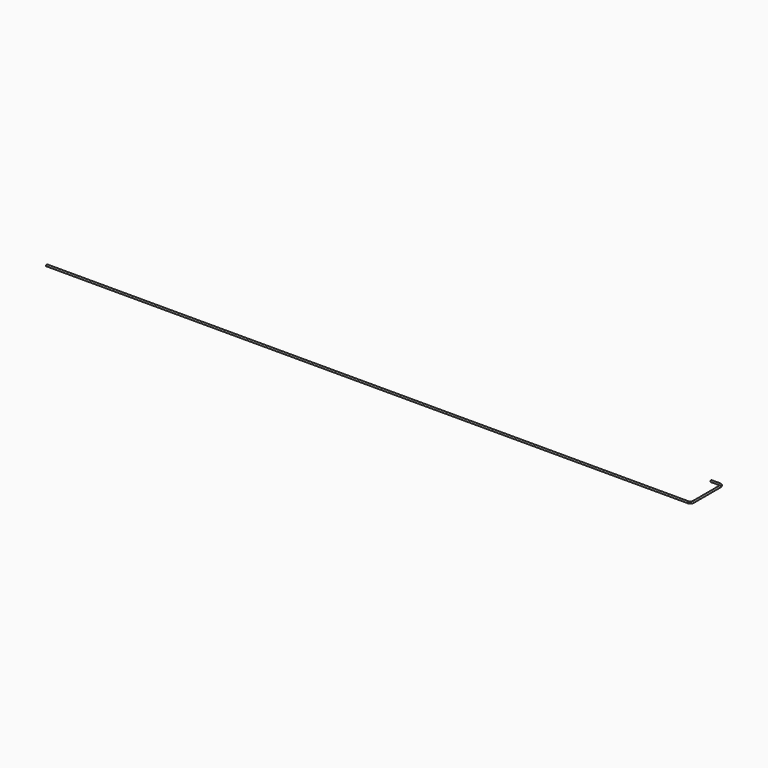
from build123d import *

# Parameters (mm, degrees)
F1_R = 15


with BuildPart() as f2:
    # F2: sweep along a path in F0
    with BuildLine(Plane.XY) as f2_path:
        Line((0, 0), (150, 0))
        ThreePointArc((150, 0), (185.3553390593, -14.6446609407), (200, -50))
        Line((200, -50), (200, -650))
        ThreePointArc((200, -650), (185.3553390593, -685.3553390593), (150, -700))
        Line((150, -700), (-11300, -700))
    # F1 (on Right) → F2 (sweep)
    with BuildSketch(Plane.YZ):
        Circle(F1_R)
    sweep(path=f2_path.line)


solid = f2.part
